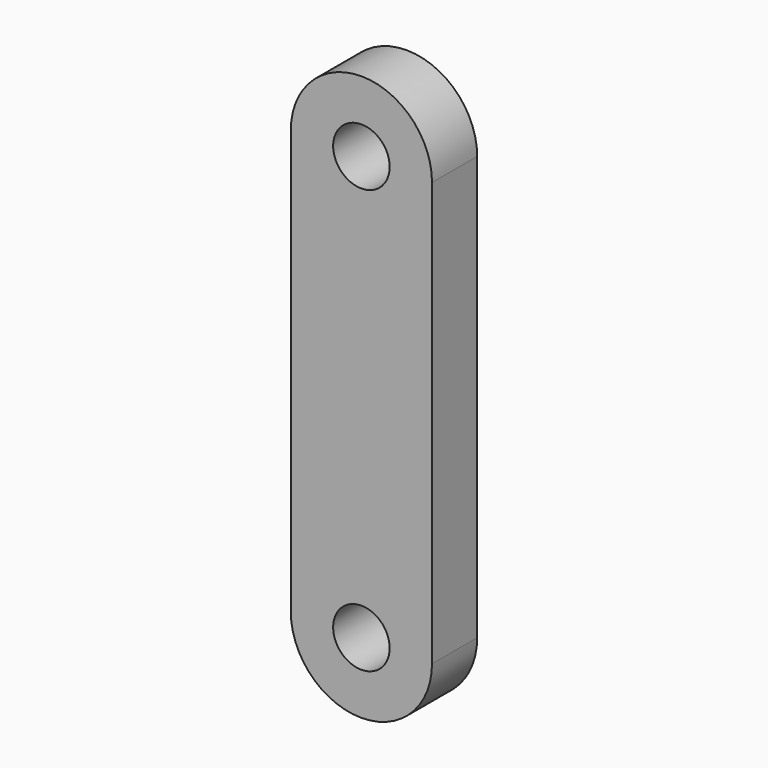
from build123d import *

# Parameters (mm, degrees)
F0_R     = 4
F1_DEPTH = 8


with BuildPart() as f1:
    # F0 (on Front) → F1 (new body)
    with BuildSketch(Plane.XZ):
        with BuildLine():
            ThreePointArc((-10, 0), (0, -10), (10, 0))
            ThreePointArc((10, 0), (0, 10), (-10, 0))
        make_face()
        Circle(F0_R, mode=Mode.SUBTRACT)
        with BuildLine():
            ThreePointArc((-10, 0), (0, 10), (10, 0))
            Line((10, 0), (10, 60))
            ThreePointArc((10, 60), (0, 50), (-10, 60))
            Line((-10, 60), (-10, 0))
        make_face()
        with BuildLine():
            ThreePointArc((-10, 60), (0, 50), (10, 60))
            ThreePointArc((10, 60), (0, 70), (-10, 60))
        make_face()
        with Locations((0, 60)):
            Circle(F0_R, mode=Mode.SUBTRACT)
    extrude(amount=F1_DEPTH)


solid = f1.part
